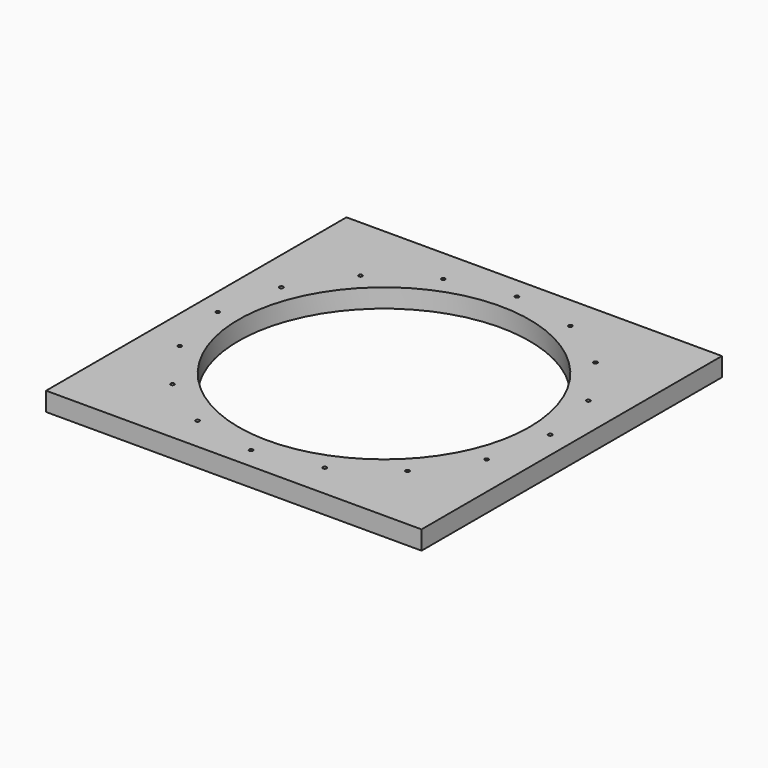
from build123d import *

# Parameters (mm, degrees)
SKETCH_W           = 399.99
SKETCH_H           = 399.99
PAD_DEPTH          = 20
SKETCH001_R        = 155
POCKET_DEPTH       = 20.001
SKETCH002_R        = 2
POCKET001_DEPTH    = 1152.050469
POLARPATTERN_COUNT = 16


with BuildPart() as part:
    # Sketch → Pad (new body)
    with BuildSketch(Plane.XY):
        Rectangle(SKETCH_W, SKETCH_H)
    extrude(amount=PAD_DEPTH)

    # Sketch001 (on Face6 of Pad) → Pocket (cut, through all)
    with BuildSketch(Plane.XY.offset(20)):
        Circle(SKETCH001_R)
    extrude(amount=-POCKET_DEPTH, mode=Mode.SUBTRACT)

    # Sketch002 (on Face5 of Pocket) → Pocket001 (cut, through all)
    with BuildSketch(Plane.XY.offset(20)):
        with Locations((0, 177)):
            Circle(SKETCH002_R)
    pocket001 = extrude(amount=-POCKET001_DEPTH, mode=Mode.SUBTRACT)

    # PolarPattern: Pocket001 ×16 about axis
    polarpattern_axis = Axis((0, 0, 20), (0, 0, 1))
    for i in range(1, POLARPATTERN_COUNT):
        add(pocket001.rotate(polarpattern_axis, i * 360 / POLARPATTERN_COUNT), mode=Mode.SUBTRACT)


solid = part.part
